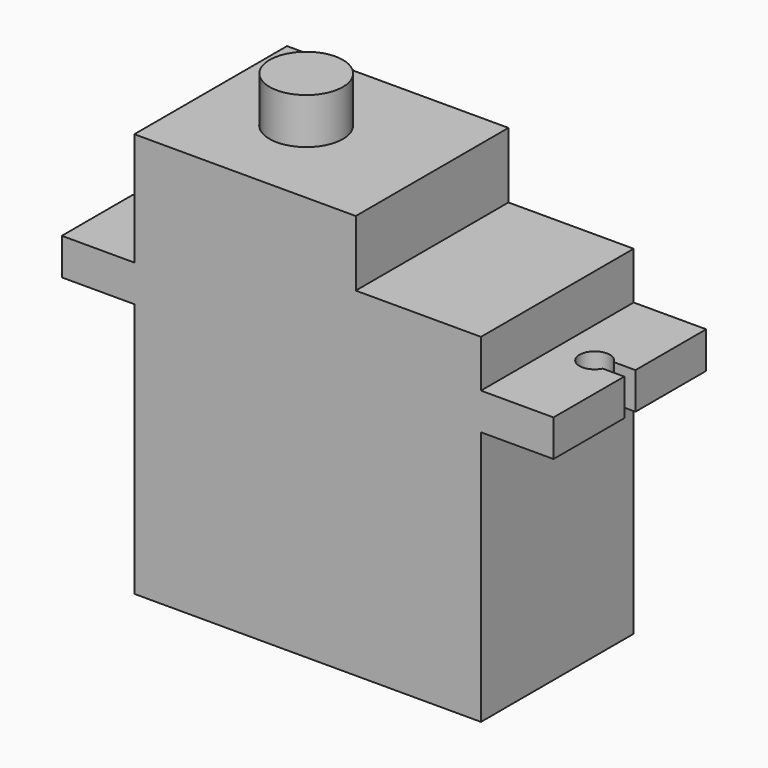
from build123d import *

# Parameters (mm, degrees)
F0_W      = 22.7
F0_H      = 12.5
F1_DEPTH  = 16.7
F2_W      = 32.2
F2_H      = 12.5
F3_DEPTH  = 2.4
F5_DEPTH  = 19.101
F6_DEPTH  = 22.2
F7_W      = 14.5
F7_H      = 12.5
F8_DEPTH  = 4.3
F12_R     = 2.4
F13_DEPTH = 20
F14_R     = 2.4
F15_DEPTH = 3
F16_DEPTH = 23


with BuildPart() as f1:
    # F0 (on Top) → F1 (new body)
    with BuildSketch(Plane.XY):
        Rectangle(F0_W, F0_H)
    extrude(amount=F1_DEPTH)

    # F2 (on face) → F3 (join)
    with BuildSketch(Plane.XY.offset(16.7)):
        Rectangle(F2_W, F2_H)
    extrude(amount=F3_DEPTH)

    # F4 (on face) → F5 (cut, through all)
    with BuildSketch(Plane.XY.offset(19.1)):
        with BuildLine():
            ThreePointArc((-14.6890426058, -0.4578244698), (-13.5644608374, -0.9718648583), (-12.8, 0))
            ThreePointArc((-12.8, 0), (-13.5644608374, 0.9718648583), (-14.6890426058, 0.4578244698))
            Line((-14.6890426058, 0.4578244698), (-13.5, 0.4578244698))
            Line((-13.5, 0.4578244698), (-13.5, -0.4578244698))
            Line((-13.5, -0.4578244698), (-14.6890426058, -0.4578244698))
        make_face()
        with BuildLine():
            Line((-13.5, 0.4578244698), (-14.6890426058, 0.4578244698))
            ThreePointArc((-14.6890426058, 0.4578244698), (-14.8, 0), (-14.6890426058, -0.4578244698))
            Line((-14.6890426058, -0.4578244698), (-13.5, -0.4578244698))
            Line((-13.5, -0.4578244698), (-13.5, 0.4578244698))
        make_face()
        with BuildLine():
            ThreePointArc((-14.6890426058, -0.4578244698), (-14.8, 0), (-14.6890426058, 0.4578244698))
            Line((-14.6890426058, 0.4578244698), (-16.1, 0.4578244698))
            Line((-16.1, 0.4578244698), (-16.1, -0.4578244698))
            Line((-16.1, -0.4578244698), (-14.6890426058, -0.4578244698))
        make_face()
        with BuildLine():
            Line((14.6890426058, 0.4578244698), (13.5, 0.4578244698))
            Line((13.5, 0.4578244698), (13.5, -0.4578244698))
            Line((13.5, -0.4578244698), (14.6890426058, -0.4578244698))
            ThreePointArc((14.6890426058, -0.4578244698), (14.7718648583, -0.2355391626), (14.8, 0))
            ThreePointArc((14.8, 0), (14.7718648583, 0.2355391626), (14.6890426058, 0.4578244698))
        make_face()
        with BuildLine():
            Line((13.5, -0.4578244698), (13.5, 0.4578244698))
            Line((13.5, 0.4578244698), (14.6890426058, 0.4578244698))
            ThreePointArc((14.6890426058, 0.4578244698), (12.8, 0), (14.6890426058, -0.4578244698))
            Line((14.6890426058, -0.4578244698), (13.5, -0.4578244698))
        make_face()
        with BuildLine():
            Line((16.1, 0.4578244698), (14.6890426058, 0.4578244698))
            ThreePointArc((14.6890426058, 0.4578244698), (14.7718648583, 0.2355391626), (14.8, 0))
            ThreePointArc((14.8, 0), (14.7718648583, -0.2355391626), (14.6890426058, -0.4578244698))
            Line((14.6890426058, -0.4578244698), (16.1, -0.4578244698))
            Line((16.1, -0.4578244698), (16.1, 0.4578244698))
        make_face()
    extrude(amount=-F5_DEPTH, mode=Mode.SUBTRACT)

    # F6 (add): a face of the model
    f6_faces = [f1.faces().sort_by_distance(p)[0] for p in [
        (0, 0, 0),
    ]]
    extrude(f6_faces, amount=-F6_DEPTH)

    # F7 (on face) → F8 (join)
    with BuildSketch(Plane.XY.offset(22.2)):
        with Locations((-4.1, 0)):
            Rectangle(F7_W, F7_H)
    extrude(amount=F8_DEPTH)


with BuildPart() as f10_1:
    # F10: copy of F1
    add(f1.part)


with BuildPart() as f1_1:
    add(f1.part)

    # F12 (on face) → F13 (cut)
    with BuildSketch(Plane.XY.offset(26.5)):
        with Locations((-5.1, 0)):
            Circle(F12_R)
    extrude(amount=-F13_DEPTH, mode=Mode.SUBTRACT)


with BuildPart() as f15:
    # F14 (on face) → F15 (new body)
    with BuildSketch(Plane.XY.offset(26.5)):
        with Locations((-5.0913058221, 0)):
            Circle(F14_R)
    extrude(amount=F15_DEPTH)


with BuildPart() as f16:
    # F16 (new): a face of the model
    f16_faces = [f15.part.faces().sort_by_distance(p)[0] for p in [
        (-5.0913058221, 0, 29.5),
    ]]
    extrude(f16_faces, amount=-F16_DEPTH)


solid = Compound([f1_1.part, f16.part])
